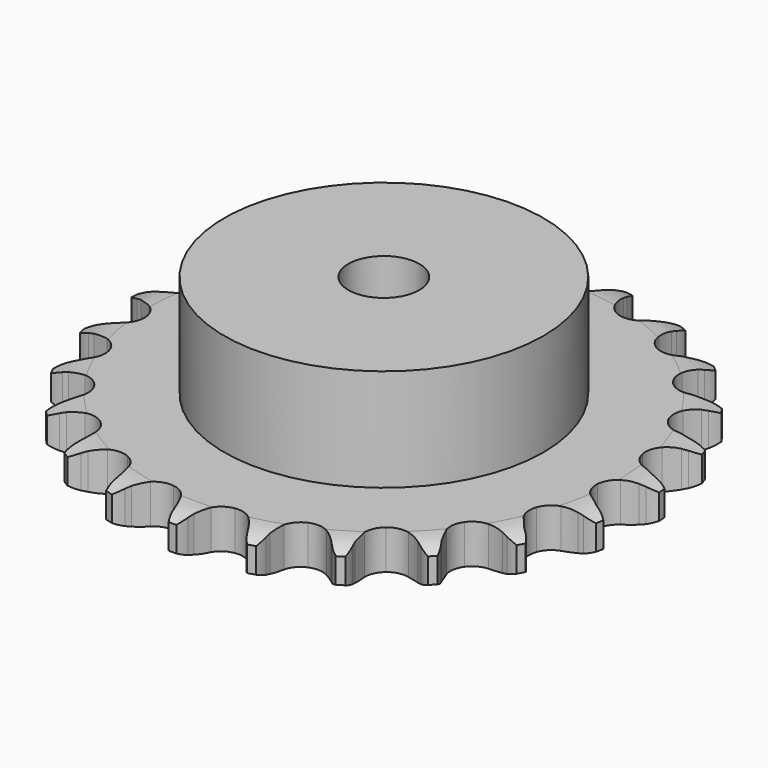
from build123d import *

# Parameters (mm, degrees)
PAD_DEPTH         = 11.1
SKETCH001_R       = 45
PAD001_DEPTH      = 40
SKETCH002_R       = 10
POCKET_DEPTH      = 0.001
POCKET_DEPTH_BACK = -40.001


with BuildPart() as part:
    # Sprocket → Pad (new body)
    with BuildSketch(Plane.XY):
        with BuildLine():
            ThreePointArc((-10.340591, 75.233389), (-8.706627, 73.474325), (-7.542965, 71.374317))
            Line((-7.542965, 71.374317), (-6.957807, 69.929158))
            ThreePointArc((-6.957807, 69.929158), (-6.022333, 68.005597), (-4.834996, 66.226432))
            ThreePointArc((-4.834996, 66.226432), (-2.694216, 64.47463), (0, 63.847774))
            ThreePointArc((0, 63.847774), (2.694216, 64.47463), (4.834996, 66.226432))
            ThreePointArc((4.834996, 66.226432), (6.022333, 68.005597), (6.957807, 69.929158))
            Line((6.957807, 69.929158), (7.542965, 71.374317))
            ThreePointArc((7.542965, 71.374317), (8.706627, 73.474325), (10.340591, 75.233389))
            ThreePointArc((10.340591, 75.233389), (11.439374, 73.098718), (11.993309, 70.762631))
            Line((11.993309, 70.762631), (12.166869, 69.213188))
            ThreePointArc((12.166869, 69.213188), (12.548682, 67.108571), (13.211976, 65.075043))
            ThreePointArc((13.211976, 65.075043), (14.80074, 62.810627), (17.225923, 61.480126))
            ThreePointArc((17.225923, 61.480126), (19.989354, 61.356845), (22.523379, 62.46611))
            Line((22.523379, 62.46611), (25.566453, 65.458801))
            ThreePointArc((25.566453, 65.458801), (26.027866, 66.087446), (26.519812, 66.692496))
            ThreePointArc((26.519812, 66.692496), (28.206897, 68.400678), (30.25486, 69.653673))
            ThreePointArc((30.25486, 69.653673), (30.736969, 67.301713), (30.640094, 64.902805))
            Line((30.640094, 64.902805), (30.389183, 63.363994))
            ThreePointArc((30.389183, 63.363994), (30.189019, 61.234409), (30.279076, 59.097335))
            ThreePointArc((30.279076, 59.097335), (31.197993, 56.488247), (33.174279, 54.552777))
            ThreePointArc((33.174279, 54.552777), (35.801974, 53.688504), (38.541306, 54.072962))
            Line((38.541306, 54.072962), (42.278953, 56.133664))
            ThreePointArc((42.278953, 56.133664), (42.892862, 56.61451), (43.529805, 57.064398))
            ThreePointArc((43.529805, 57.064398), (45.615191, 58.254066), (47.925263, 58.908062))
            ThreePointArc((47.925263, 58.908062), (47.754944, 56.513248), (47.014443, 54.229435))
            Line((47.014443, 54.229435), (46.35767, 52.815382))
            ThreePointArc((46.35767, 52.815382), (45.590374, 50.818771), (45.100516, 48.736648))
            ThreePointArc((45.100516, 48.736648), (45.281433, 45.976392), (46.66225, 43.579499))
            ThreePointArc((46.66225, 43.579499), (48.959324, 42.038332), (51.7008, 41.66947))
            Line((51.7008, 41.66947), (55.855816, 42.645351))
            ThreePointArc((55.855816, 42.645351), (56.57669, 42.942734), (57.311392, 43.204094))
            ThreePointArc((57.311392, 43.204094), (59.640415, 43.787016), (62.04127, 43.79351))
            ThreePointArc((62.04127, 43.79351), (61.231153, 41.533454), (59.901946, 39.534115))
            Line((59.901946, 39.534115), (58.888022, 38.349694))
            ThreePointArc((58.888022, 38.349694), (57.6105, 36.634138), (56.577057, 34.761388))
            ThreePointArc((56.577057, 34.761388), (56.006557, 32.054678), (56.689495, 29.374129))
            ThreePointArc((56.689495, 29.374129), (58.485586, 27.270369), (61.025883, 26.175544))
            Line((61.025883, 26.175544), (65.290109, 25.994227))
            ThreePointArc((65.290109, 25.994227), (66.064484, 26.086093), (66.842455, 26.139541))
            ThreePointArc((66.842455, 26.139541), (69.242382, 26.072483), (71.555959, 25.430994))
            ThreePointArc((71.555959, 25.430994), (70.166127, 23.473313), (68.346796, 21.906731))
            Line((68.346796, 21.906731), (67.050918, 21.039785))
            ThreePointArc((67.050918, 21.039785), (65.357918, 19.732518), (63.857537, 18.208034))
            ThreePointArc((63.857537, 18.208034), (62.57793, 15.755615), (62.51234, 12.990214))
            ThreePointArc((62.51234, 12.990214), (63.674239, 10.479887), (65.824955, 8.740298))
            Line((65.824955, 8.740298), (69.882133, 7.41523))
            ThreePointArc((69.882133, 7.41523), (70.652577, 7.294765), (71.41612, 7.136337))
            ThreePointArc((71.41612, 7.136337), (73.708959, 6.424274), (75.76367, 5.182377))
            ThreePointArc((75.76367, 5.182377), (73.897201, 3.672264), (71.722677, 2.654625))
            Line((71.722677, 2.654625), (70.240954, 2.169452))
            ThreePointArc((70.240954, 2.169452), (68.258039, 1.367427), (66.401995, 0.304273))
            ThreePointArc((66.401995, 0.304273), (64.508185, -1.711969), (63.698931, -4.357126))
            ThreePointArc((63.698931, -4.357126), (64.140465, -7.08784), (65.742091, -9.343176))
            Line((65.742091, -9.343176), (69.291319, -11.713721))
            ThreePointArc((69.291319, -11.713721), (70.000692, -12.037582), (70.693177, -12.396136))
            ThreePointArc((70.693177, -12.396136), (72.708879, -13.700395), (74.352336, -15.450593))
            ThreePointArc((74.352336, -15.450593), (72.147657, -16.401139), (69.779215, -16.794362))
            Line((69.779215, -16.794362), (68.22154, -16.86178))
            ThreePointArc((68.22154, -16.86178), (66.095773, -17.099079), (64.02172, -17.622054))
            ThreePointArc((64.02172, -17.622054), (61.654163, -19.052585), (60.161263, -21.381318))
            ThreePointArc((60.161263, -21.381318), (59.849687, -24.129894), (60.783437, -26.73371))
            Line((60.783437, -26.73371), (63.561485, -29.973919))
            ThreePointArc((63.561485, -29.973919), (64.157176, -30.477156), (64.727244, -31.009245))
            ThreePointArc((64.727244, -31.009245), (66.316314, -32.808968), (67.426629, -34.937663))
            ThreePointArc((67.426629, -34.937663), (65.047252, -35.258146), (62.660548, -34.997789))
            Line((62.660548, -34.997789), (61.142447, -34.64245))
            ThreePointArc((61.142447, -34.64245), (59.031486, -34.297425), (56.893248, -34.241434))
            ThreePointArc((56.893248, -34.241434), (54.227533, -34.980157), (52.161709, -36.819755))
            ThreePointArc((52.161709, -36.819755), (51.12013, -39.382344), (51.316754, -42.141527))
            Line((51.316754, -42.141527), (53.117586, -46.011088))
            ThreePointArc((53.117586, -46.011088), (53.555416, -46.65638), (53.960789, -47.322539))
            ThreePointArc((53.960789, -47.322539), (55.005371, -49.48425), (55.500198, -51.833567))
            ThreePointArc((55.500198, -51.833567), (53.12259, -51.500217), (50.894634, -50.605589))
            Line((50.894634, -50.605589), (49.528698, -49.853849))
            ThreePointArc((49.528698, -49.853849), (47.589104, -48.952088), (45.545264, -48.321283))
            ThreePointArc((45.545264, -48.321283), (42.779096, -48.313411), (40.293561, -49.52744))
            ThreePointArc((40.293561, -49.52744), (38.599228, -51.713986), (38.044141, -54.423899))
            Line((38.044141, -54.423899), (38.734199, -58.635825))
            ThreePointArc((38.734199, -58.635825), (38.981695, -59.375313), (39.192308, -60.126138))
            ThreePointArc((39.192308, -60.126138), (39.614932, -62.489511), (39.457571, -64.885212))
            ThreePointArc((39.457571, -64.885212), (37.258068, -63.922752), (35.354098, -62.460205))
            Line((35.354098, -62.460205), (34.241632, -61.367816))
            ThreePointArc((34.241632, -61.367816), (32.617255, -59.976198), (30.819396, -58.817364))
            ThreePointArc((30.819396, -58.817364), (28.157928, -58.063481), (25.437023, -58.5619))
            ThreePointArc((25.437023, -58.5619), (23.215598, -60.210238), (21.949969, -62.6699))
            Line((21.949969, -62.6699), (21.478074, -66.911811))
            ThreePointArc((21.478074, -66.911811), (21.51688, -67.69065), (21.517113, -68.470456))
            ThreePointArc((21.517113, -68.470456), (21.286435, -70.860211), (20.488557, -73.124617))
            ThreePointArc((20.488557, -73.124617), (18.630285, -71.604429), (17.191511, -69.682432))
            Line((17.191511, -69.682432), (16.41502, -68.330412))
            ThreePointArc((16.41502, -68.330412), (15.226334, -66.552149), (13.807794, -64.95123))
            ThreePointArc((13.807794, -64.95123), (11.448416, -63.507248), (8.693937, -63.253093))
            ThreePointArc((8.693937, -63.253093), (6.110172, -64.240973), (4.227868, -66.267961))
            Line((4.227868, -66.267961), (2.629018, -70.225255))
            ThreePointArc((2.629018, -70.225255), (2.456257, -70.985682), (2.246092, -71.736633))
            ThreePointArc((2.246092, -71.736633), (1.37922, -73.975534), (0, -75.940705))
            ThreePointArc((0, -75.940705), (-1.37922, -73.975534), (-2.246092, -71.736633))
            Line((-2.246092, -71.736633), (-2.629018, -70.225255))
            ThreePointArc((-2.629018, -70.225255), (-3.293854, -68.19223), (-4.227868, -66.267961))
            ThreePointArc((-4.227868, -66.267961), (-6.110172, -64.240973), (-8.693937, -63.253093))
            ThreePointArc((-8.693937, -63.253093), (-11.448416, -63.507248), (-13.807794, -64.95123))
            Line((-13.807794, -64.95123), (-16.41502, -68.330412))
            ThreePointArc((-16.41502, -68.330412), (-16.786535, -69.016031), (-17.191511, -69.682432))
            ThreePointArc((-17.191511, -69.682432), (-18.630285, -71.604429), (-20.488557, -73.124617))
            ThreePointArc((-20.488557, -73.124617), (-21.286435, -70.860211), (-21.517113, -68.470456))
            Line((-21.517113, -68.470456), (-21.478074, -66.911811))
            ThreePointArc((-21.478074, -66.911811), (-21.569753, -64.774806), (-21.949969, -62.6699))
            ThreePointArc((-21.949969, -62.6699), (-23.215598, -60.210238), (-25.437023, -58.5619))
            ThreePointArc((-25.437023, -58.5619), (-28.157928, -58.063481), (-30.819396, -58.817364))
            Line((-30.819396, -58.817364), (-34.241632, -61.367816))
            ThreePointArc((-34.241632, -61.367816), (-34.784347, -61.927776), (-35.354098, -62.460205))
            ThreePointArc((-35.354098, -62.460205), (-37.258068, -63.922752), (-39.457571, -64.885212))
            ThreePointArc((-39.457571, -64.885212), (-39.614932, -62.489511), (-39.192308, -60.126138))
            Line((-39.192308, -60.126138), (-38.734199, -58.635825))
            ThreePointArc((-38.734199, -58.635825), (-38.245921, -56.553331), (-38.044141, -54.423899))
            ThreePointArc((-38.044141, -54.423899), (-38.599228, -51.713986), (-40.293561, -49.52744))
            ThreePointArc((-40.293561, -49.52744), (-42.779096, -48.313411), (-45.545264, -48.321283))
            Line((-45.545264, -48.321283), (-49.528698, -49.853849))
            ThreePointArc((-49.528698, -49.853849), (-50.202364, -50.246622), (-50.894634, -50.605589))
            ThreePointArc((-50.894634, -50.605589), (-53.12259, -51.500217), (-55.500198, -51.833567))
            ThreePointArc((-55.500198, -51.833567), (-55.005371, -49.48425), (-53.960789, -47.322539))
            Line((-53.960789, -47.322539), (-53.117586, -46.011088))
            ThreePointArc((-53.117586, -46.011088), (-52.085565, -44.137554), (-51.316754, -42.141527))
            ThreePointArc((-51.316754, -42.141527), (-51.12013, -39.382344), (-52.161709, -36.819755))
            ThreePointArc((-52.161709, -36.819755), (-54.227533, -34.980157), (-56.893248, -34.241434))
            Line((-56.893248, -34.241434), (-61.142447, -34.64245))
            ThreePointArc((-61.142447, -34.64245), (-61.8971, -34.838905), (-62.660548, -34.997789))
            ThreePointArc((-62.660548, -34.997789), (-65.047252, -35.258146), (-67.426629, -34.937663))
            ThreePointArc((-67.426629, -34.937663), (-66.316314, -32.808968), (-64.727244, -31.009245))
            Line((-64.727244, -31.009245), (-63.561485, -29.973919))
            ThreePointArc((-63.561485, -29.973919), (-62.06226, -28.448297), (-60.783437, -26.73371))
            ThreePointArc((-60.783437, -26.73371), (-59.849687, -24.129894), (-60.161263, -21.381318))
            ThreePointArc((-60.161263, -21.381318), (-61.654163, -19.052585), (-64.02172, -17.622054))
            Line((-64.02172, -17.622054), (-68.22154, -16.86178))
            ThreePointArc((-68.22154, -16.86178), (-69.001212, -16.847346), (-69.779215, -16.794362))
            ThreePointArc((-69.779215, -16.794362), (-72.147657, -16.401139), (-74.352336, -15.450593))
            ThreePointArc((-74.352336, -15.450593), (-72.708879, -13.700395), (-70.693177, -12.396136))
            Line((-70.693177, -12.396136), (-69.291319, -11.713721))
            ThreePointArc((-69.291319, -11.713721), (-67.436082, -10.649159), (-65.742091, -9.343176))
            ThreePointArc((-65.742091, -9.343176), (-64.140465, -7.08784), (-63.698931, -4.357126))
            ThreePointArc((-63.698931, -4.357126), (-64.508185, -1.711969), (-66.401995, 0.304273))
            Line((-66.401995, 0.304273), (-70.240954, 2.169452))
            ThreePointArc((-70.240954, 2.169452), (-70.987819, 2.393703), (-71.722677, 2.654625))
            ThreePointArc((-71.722677, 2.654625), (-73.897201, 3.672264), (-75.76367, 5.182377))
            ThreePointArc((-75.76367, 5.182377), (-73.708959, 6.424274), (-71.41612, 7.136337))
            Line((-71.41612, 7.136337), (-69.882133, 7.41523))
            ThreePointArc((-69.882133, 7.41523), (-67.808478, 7.939778), (-65.824955, 8.740298))
            ThreePointArc((-65.824955, 8.740298), (-63.674239, 10.479887), (-62.51234, 12.990214))
            ThreePointArc((-62.51234, 12.990214), (-62.57793, 15.755615), (-63.857537, 18.208034))
            Line((-63.857537, 18.208034), (-67.050918, 21.039785))
            ThreePointArc((-67.050918, 21.039785), (-67.709585, 21.457223), (-68.346796, 21.906731))
            ThreePointArc((-68.346796, 21.906731), (-70.166127, 23.473313), (-71.555959, 25.430994))
            ThreePointArc((-71.555959, 25.430994), (-69.242382, 26.072483), (-66.842455, 26.139541))
            Line((-66.842455, 26.139541), (-65.290109, 25.994227))
            ThreePointArc((-65.290109, 25.994227), (-63.151829, 25.939858), (-61.025883, 26.175544))
            ThreePointArc((-61.025883, 26.175544), (-58.485586, 27.270369), (-56.689495, 29.374129))
            ThreePointArc((-56.689495, 29.374129), (-56.006557, 32.054678), (-56.577057, 34.761388))
            Line((-56.577057, 34.761388), (-58.888022, 38.349694))
            ThreePointArc((-58.888022, 38.349694), (-59.409641, 38.929358), (-59.901946, 39.534115))
            ThreePointArc((-59.901946, 39.534115), (-61.231153, 41.533454), (-62.04127, 43.79351))
            ThreePointArc((-62.04127, 43.79351), (-59.640415, 43.787016), (-57.311392, 43.204094))
            Line((-57.311392, 43.204094), (-55.855816, 42.645351))
            ThreePointArc((-55.855816, 42.645351), (-53.811498, 42.016097), (-51.7008, 41.66947))
            ThreePointArc((-51.7008, 41.66947), (-48.959324, 42.038332), (-46.66225, 43.579499))
            ThreePointArc((-46.66225, 43.579499), (-45.281433, 45.976392), (-45.100516, 48.736648))
            Line((-45.100516, 48.736648), (-46.35767, 52.815382))
            ThreePointArc((-46.35767, 52.815382), (-46.703555, 53.514281), (-47.014443, 54.229435))
            ThreePointArc((-47.014443, 54.229435), (-47.754944, 56.513248), (-47.925263, 58.908062))
            ThreePointArc((-47.925263, 58.908062), (-45.615191, 58.254066), (-43.529805, 57.064398))
            Line((-43.529805, 57.064398), (-42.278953, 56.133664))
            ThreePointArc((-42.278953, 56.133664), (-40.480215, 54.976195), (-38.541306, 54.072962))
            ThreePointArc((-38.541306, 54.072962), (-35.801974, 53.688504), (-33.174279, 54.552777))
            ThreePointArc((-33.174279, 54.552777), (-31.197993, 56.488247), (-30.279076, 59.097335))
            Line((-30.279076, 59.097335), (-30.389183, 63.363994))
            ThreePointArc((-30.389183, 63.363994), (-30.53368, 64.130295), (-30.640094, 64.902805))
            ThreePointArc((-30.640094, 64.902805), (-30.736969, 67.301713), (-30.25486, 69.653673))
            ThreePointArc((-30.25486, 69.653673), (-28.206897, 68.400678), (-26.519812, 66.692496))
            Line((-26.519812, 66.692496), (-25.566453, 65.458801))
            ThreePointArc((-25.566453, 65.458801), (-24.146699, 63.858959), (-22.523379, 62.46611))
            ThreePointArc((-22.523379, 62.46611), (-19.989354, 61.356845), (-17.225923, 61.480126))
            ThreePointArc((-17.225923, 61.480126), (-14.80074, 62.810627), (-13.211976, 65.075043))
            Line((-13.211976, 65.075043), (-12.166869, 69.213188))
            ThreePointArc((-12.166869, 69.213188), (-12.099262, 69.990058), (-11.993309, 70.762631))
            ThreePointArc((-11.993309, 70.762631), (-11.439374, 73.098718), (-10.340591, 75.233389))
        make_face()
    extrude(amount=PAD_DEPTH)

    # Sketch → Groove (revolve, cut)
    with BuildSketch(Plane.XZ):
        with BuildLine():
            Line((66.014719, 0), (74.5, 0))
            Line((82.985281, 0), (74.5, 0))
            Line((82.985281, 11.1), (82.985281, 0))
            Line((74.5, 11.1), (82.985281, 11.1))
            Line((66.014719, 11.1), (74.5, 11.1))
            ThreePointArc((74.5, 9.1), (70.373618, 10.593242), (66.014719, 11.1))
            Line((74.5, 2), (74.5, 9.1))
            ThreePointArc((66.014719, 0), (70.373618, 0.506758), (74.5, 2))
        make_face()
    revolve(axis=Axis((0, 0, 0), (0, 0, 1)), mode=Mode.SUBTRACT)

    # Sketch001 → Pad001 (join)
    with BuildSketch(Plane.XY):
        Circle(SKETCH001_R)
    extrude(amount=PAD001_DEPTH)

    # Sketch002 → Pocket (cut, two sides)
    with BuildSketch(Plane.XY) as pocket_sk:
        Circle(SKETCH002_R)
    extrude(amount=-POCKET_DEPTH, mode=Mode.SUBTRACT)
    extrude(pocket_sk.sketch, amount=-POCKET_DEPTH_BACK, mode=Mode.SUBTRACT)


solid = part.part
